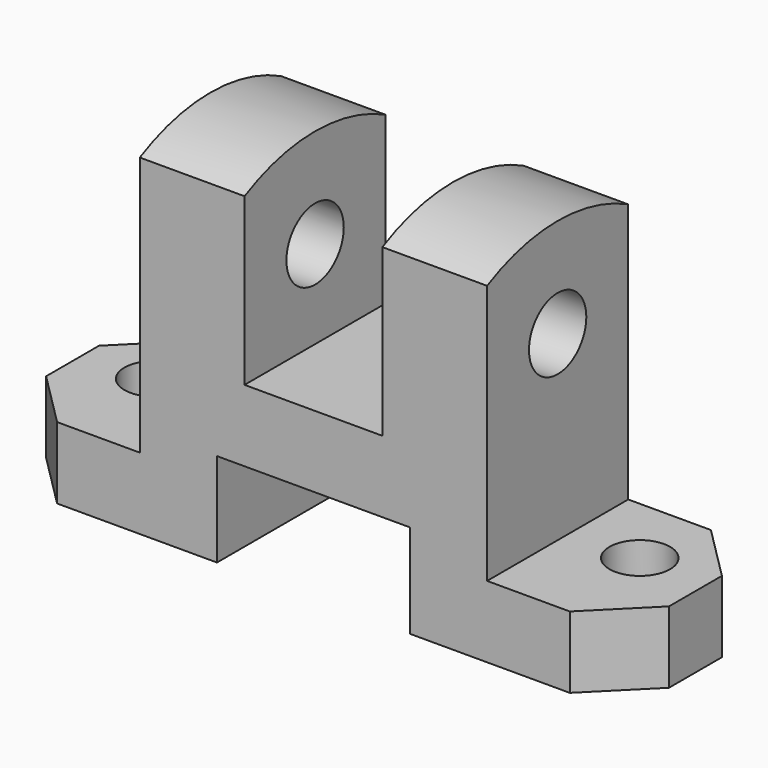
from build123d import *

# Parameters (mm, degrees)
F1_DEPTH  = 32
F3_DEPTH  = 25
F4_R      = 5.5
F5_DEPTH  = 25
F6_R      = 5.5
F7_DEPTH  = 25
F10_DEPTH = 19
F8_R      = 6.5
F11_DEPTH = 88.001
F13_DEPTH = 19


with BuildPart() as f1:
    # F0 (on Front) → F1 (new body)
    with BuildSketch(Plane.XZ):
        Polygon((-39, 13), (-39, 0), (0, 0), (0, 17), (35, 17), (35, 0), (74, 0), (74, 13), (49, 13), (49, 60.129), (30, 60.129), (30, 30), (5, 30), (5, 60.129), (-14, 60.129), (-14, 13), align=None)
    extrude(amount=F1_DEPTH)

    # F2 (on face) → F3 (cut)
    with BuildSketch(Plane.XY.offset(13)):
        Polygon((-39, -32), (-29, -32), (-39, -22), align=None)
        Polygon((-39, 0), (-39, -10), (-29, 0), align=None)
    extrude(amount=-F3_DEPTH, mode=Mode.SUBTRACT)

    # F4 (on face) → F5 (cut)
    with BuildSketch(Plane.XY.offset(13)):
        with Locations((61.5, -13)):
            Circle(F4_R)
        Polygon((74, -22), (64, -32), (74, -32), align=None)
        Polygon((64, 0), (74, -10), (74, 0), align=None)
    extrude(amount=-F5_DEPTH, mode=Mode.SUBTRACT)

    # F6 (on face) → F7 (cut)
    with BuildSketch(Plane.XY.offset(13)):
        with Locations((-26.5, -13)):
            Circle(F6_R)
    extrude(amount=-F7_DEPTH, mode=Mode.SUBTRACT)

    # F9 (on face) → F10 (join)
    with BuildSketch(Plane.YZ.offset(49)):
        with BuildLine():
            Line((-32, 60.129), (0, 60.129))
            ThreePointArc((0, 60.129), (-16, 64.000235), (-32, 60.129))
        make_face()
    extrude(amount=-F10_DEPTH)

    # F8 (on face) → F11 (cut, through all)
    with BuildSketch(Plane.YZ.offset(49)):
        with Locations((-16, 46)):
            Circle(F8_R)
    extrude(amount=-F11_DEPTH, mode=Mode.SUBTRACT)

    # F12 (on face) → F13 (join)
    with BuildSketch(Plane(origin=(-14, 0, 0), x_dir=(0, -1, 0), z_dir=(-1, 0, 0))):
        with BuildLine():
            Line((0, 60.129), (32, 60.129))
            ThreePointArc((32, 60.129), (16, 64.000235), (0, 60.129))
        make_face()
    extrude(amount=-F13_DEPTH)


solid = f1.part
